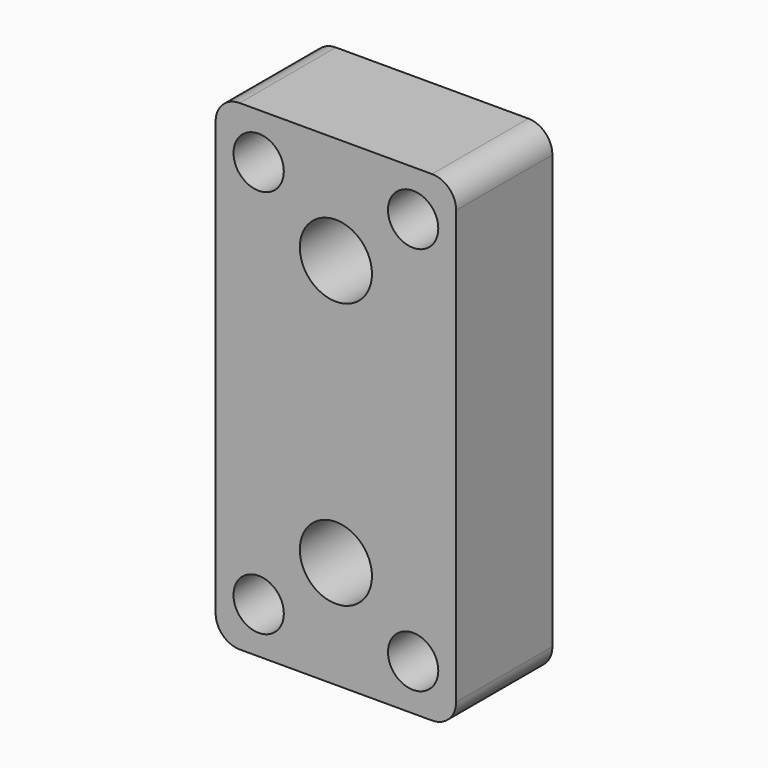
from build123d import *

# Parameters (mm, degrees)
F0_W     = 50.8
F0_H     = 101.6
F0_R     = 7.62
F1_DEPTH = 12.7
F2_R     = 5.08
F3_R     = 5.313605
F4_DEPTH = 25.4


with BuildPart() as f1:
    # F0 (on Front) → F1 (new body, symmetric)
    with BuildSketch(Plane.XZ):
        Rectangle(F0_W, F0_H)
        with Locations((0, -28.090851)):
            Circle(F0_R, mode=Mode.SUBTRACT)
        with Locations((0, 28.090851)):
            Circle(F0_R, mode=Mode.SUBTRACT)
    extrude(amount=F1_DEPTH, both=True)

    # F2
    f2_edges = [f1.edges().sort_by_distance(p)[0] for p in [
        (25.4, 0, 50.8),
        (-25.4, 0, 50.8),
        (25.4, 0, -50.8),
        (-25.4, 0, -50.8),
    ]]
    fillet(f2_edges, radius=F2_R)

    # F3 (on face) → F4 (cut, through all)
    with BuildSketch(Plane.XZ.offset(12.7)):
        with Locations((-16.311834, 41.098528)):
            Circle(F3_R)
        with Locations((16.311834, 41.098528)):
            Circle(F3_R)
        with Locations((16.311834, -41.098528)):
            Circle(F3_R)
        with Locations((-16.311834, -41.098528)):
            Circle(F3_R)
    extrude(amount=-F4_DEPTH, mode=Mode.SUBTRACT)


solid = f1.part
